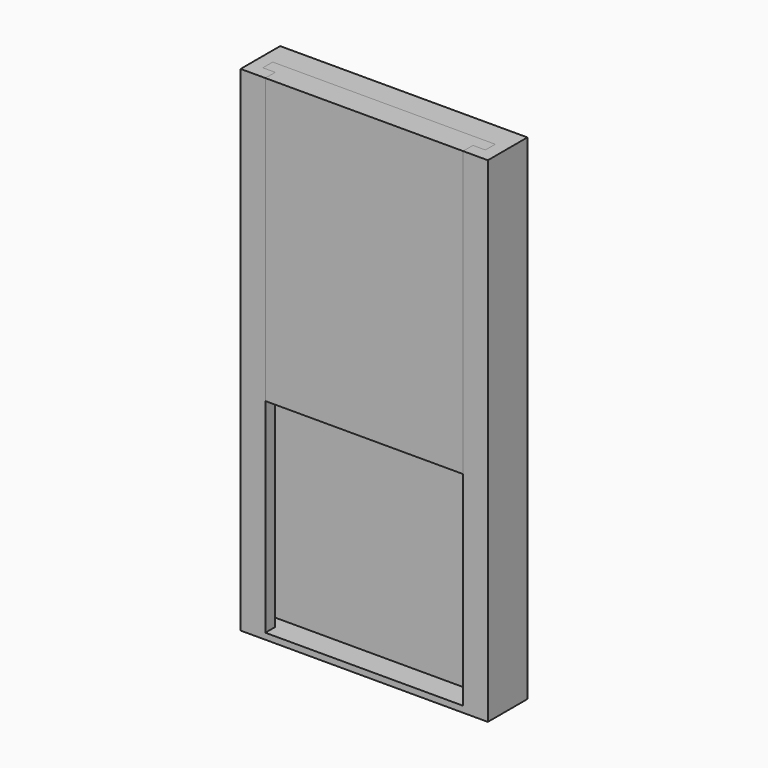
from build123d import *

# Parameters (mm, degrees)
F1_DEPTH      = 280
F1_DEPTH_BACK = 120
F3_DEPTH      = 230
F5_DEPTH      = 5


with BuildPart() as f1:
    # F0 (on Top) → F1 (new body, two sides)
    with BuildSketch(Plane.XY) as f1_sk:
        Polygon((80, 10), (80, 0), (100, 0), (100, 40), (0, 40), (0, 20), (90, 20), (90, 10), align=None)
        Polygon((0, 20), (0, 40), (-100, 40), (-100, 0), (-80, 0), (-80, 10), (-90, 10), (-90, 20), align=None)
    extrude(amount=F1_DEPTH)
    extrude(f1_sk.sketch, amount=-F1_DEPTH_BACK)

    # F4 (on face) → F5 (join)
    with BuildSketch(Plane(origin=(0, 0, -120), x_dir=(1, 0, 0), z_dir=(0, 0, -1))):
        Polygon((80, 0), (-80, 0), (-80, -10), (-90, -10), (-90, -20), (90, -20), (90, -10), (80, -10), align=None)
    extrude(amount=-F5_DEPTH)


with BuildPart() as f3:
    # F2 (on face) → F3 (new body)
    with BuildSketch(Plane.XY.offset(280)):
        Polygon((-80, 10), (-80, 0), (80, 0), (80, 10), (90, 10), (90, 20), (-90, 20), (-90, 10), align=None)
    extrude(amount=-F3_DEPTH)


solid = Compound([f1.part, f3.part])
